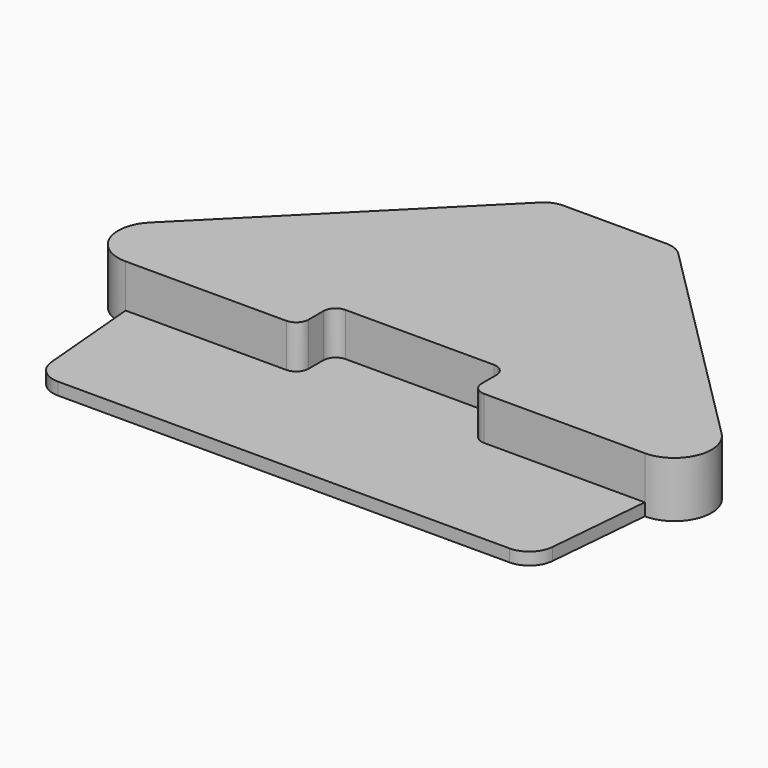
from build123d import *

# Parameters (mm, degrees)
F1_DEPTH = 114.3
F2_DEPTH = 25.4
F3_R     = 25.4
F4_R     = 50.8


with BuildPart() as f1:
    # F0 (on Top) → F1 (new body)
    with BuildSketch(Plane.XY):
        with BuildLine():
            Line((127, 0), (-127, 0))
            Line((-127, 0), (-587.281537, -460.281537))
            ThreePointArc((-587.281537, -460.281537), (-603.79962, -543.323551), (-533.4, -590.363073))
            Line((-533.4, -590.363073), (-177.8, -590.363073))
            Line((-177.8, -590.363073), (-177.8, -501.65))
            Line((-177.8, -501.65), (177.8, -501.65))
            Line((177.8, -501.65), (177.8, -590.363073))
            Line((177.8, -590.363073), (533.4, -590.363073))
            ThreePointArc((533.4, -590.363073), (603.79962, -543.323551), (587.281537, -460.281537))
            Line((587.281537, -460.281537), (127, 0))
        make_face()
    extrude(amount=F1_DEPTH)

    # F0 (on Top) → F2 (join)
    with BuildSketch(Plane.XY):
        Polygon((-177.8, -590.363073), (-533.4, -590.363073), (-510.605972, -850.9), (510.605972, -850.9), (533.4, -590.363073), (177.8, -590.363073), (177.8, -501.65), (-177.8, -501.65), align=None)
    extrude(amount=F2_DEPTH)

    # F3
    f3_edges = [f1.edges().sort_by_distance(p)[0] for p in [
        (-177.8, -590.363073, 69.85),
        (177.8, -590.363073, 69.85),
        (177.8, -501.65, 69.85),
        (-177.8, -501.65, 69.85),
    ]]
    fillet(f3_edges, radius=F3_R)

    # F4
    f4_edges = [f1.edges().sort_by_distance(p)[0] for p in [
        (-127, 0, 57.15),
        (127, 0, 57.15),
        (-510.605972, -850.9, 12.7),
        (510.605972, -850.9, 12.7),
    ]]
    fillet(f4_edges, radius=F4_R)


solid = f1.part
